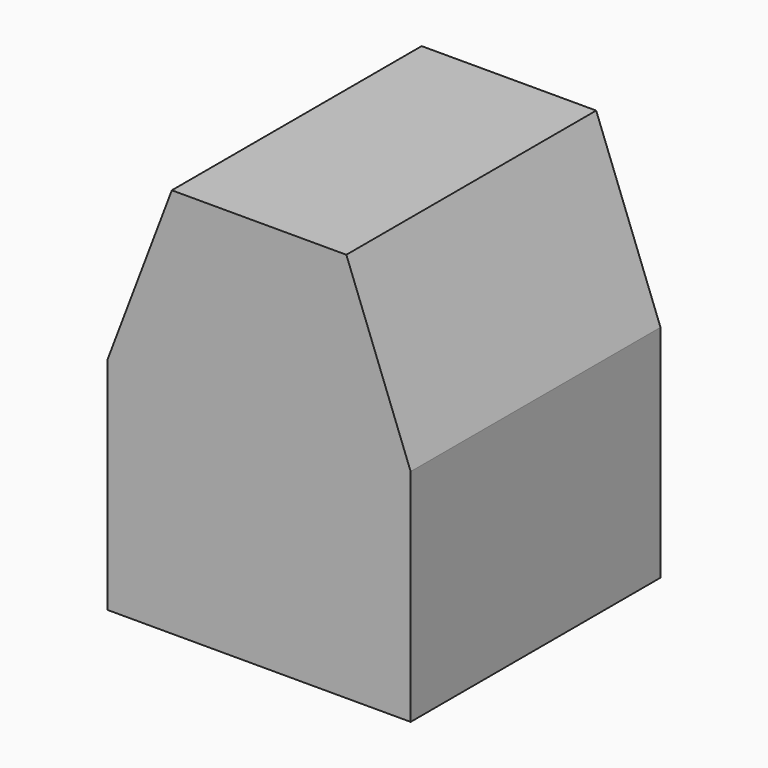
from build123d import *

# Parameters (mm, degrees)
SKETCH016_W      = 6.6
SKETCH016_H      = 6.8
PAD007_DEPTH     = 8.5
CHAMFER004_SIZE2 = 1.4
CHAMFER004_SIZE  = 3.7
CHAMFER005_SIZE2 = 3.7
CHAMFER005_SIZE  = 1.4


with BuildPart() as part:
    # Sketch016 → Pad007 (new body)
    with BuildSketch(Plane.XY):
        with Locations((50.1, 20.6)):
            Rectangle(SKETCH016_W, SKETCH016_H)
    extrude(amount=PAD007_DEPTH)

    # Chamfer004
    chamfer004_edges = [part.edges().sort_by_distance(p)[0] for p in [
        (53.4, 20.6, 8.5),
    ]]
    chamfer004_side = part.faces().sort_by_distance((53.4, 20.6, 4.25))[0]
    chamfer(chamfer004_edges, length=CHAMFER004_SIZE, length2=CHAMFER004_SIZE2, reference=chamfer004_side)

    # Chamfer005
    chamfer005_edges = [part.edges().sort_by_distance(p)[0] for p in [
        (46.8, 20.6, 8.5),
    ]]
    chamfer005_side = part.faces().sort_by_distance((49.4, 20.6, 8.5))[0]
    chamfer(chamfer005_edges, length=CHAMFER005_SIZE, length2=CHAMFER005_SIZE2, reference=chamfer005_side)


with BuildPart() as part_1:
    # Body020 placement: moved
    add(part.part.moved(Location((-26.7, 0, 0))))


solid = part_1.part
